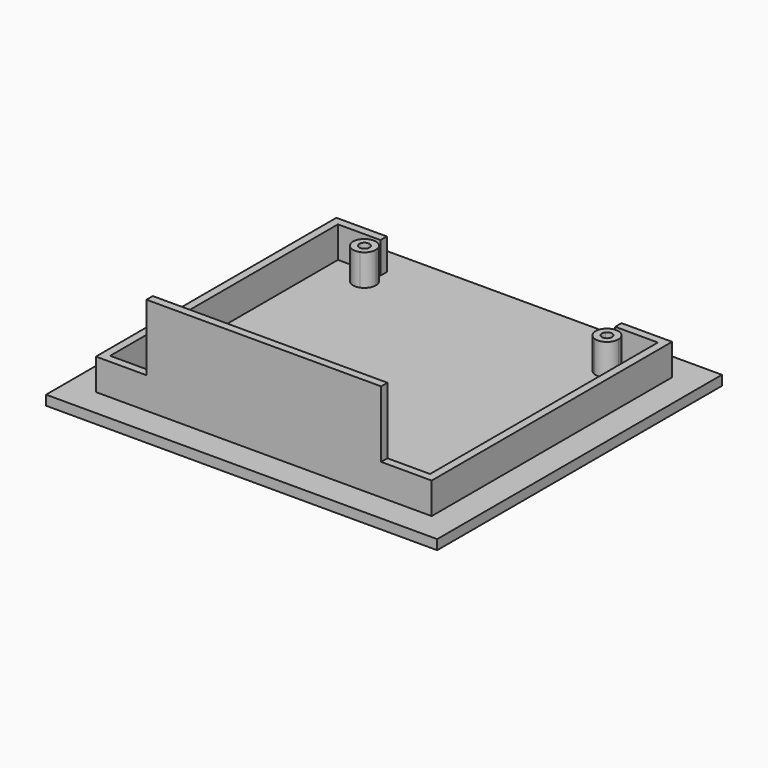
from build123d import *

# Parameters (mm, degrees)
F0_W     = 100
F0_H     = 91
F0_W_2   = 60
F0_H_2   = 2.0199990959
F0_W_3   = 20
F0_H_3   = 5
F0_H_4   = 0.9000000043
F1_DEPTH = 2.5
F2_DEPTH = 8
F3_DEPTH = 8
F4_DEPTH = 25


with BuildPart() as f1:
    # F0 (on Top) → F1 (new body)
    with BuildSketch(Plane.XY):
        with Locations((41.1687159911, -7.0227757916)):
            Rectangle(F0_W, F0_H)
        Polygon((-1.7512831092, 31.3972233087), (11.1687159911, 31.3972233087), (71.1687159911, 31.3972233087), (84.0887150913, 31.3972233087), (84.0887150913, -45.4427748919), (71.1687159911, -45.4427748919), (11.1687159911, -45.4427748919), (-1.7512831092, -45.4427748919), align=None, mode=Mode.SUBTRACT)
        with BuildLine():
            Line((71.1687159911, 28.4772242084), (11.1687159911, 28.4772242084))
            Line((11.1687159911, 28.4772242084), (11.1687159911, 28.1993557262))
            ThreePointArc((11.1687159911, 28.1993557262), (12.5467403812, 27.1370434757), (13.0687159911, 25.4772242084))
            ThreePointArc((13.0687159911, 25.4772242084), (12.5467403812, 23.8174049411), (11.1687159911, 22.7550926907))
            Line((11.1687159911, 22.7550926907), (11.1687159911, -42.5227757916))
            Line((11.1687159911, -42.5227757916), (31.1687159911, -42.5227757916))
            Line((31.1687159911, -42.5227757916), (31.1687159911, -37.5227757916))
            Line((31.1687159911, -37.5227757916), (51.1687159911, -37.5227757916))
            Line((51.1687159911, -37.5227757916), (51.1687159911, -42.5227757916))
            Line((51.1687159911, -42.5227757916), (71.1687159911, -42.5227757916))
            Line((71.1687159911, -42.5227757916), (71.1687159911, 22.7550926907))
            ThreePointArc((71.1687159911, 22.7550926907), (69.2687159911, 25.4772242084), (71.1687159911, 28.1993557262))
            Line((71.1687159911, 28.1993557262), (71.1687159911, 28.4772242084))
        make_face()
        with BuildLine():
            Line((71.1687159911, 28.4772242084), (11.1687159911, 28.4772242084))
            Line((11.1687159911, 28.4772242084), (11.1687159911, 28.1993557262))
            ThreePointArc((11.1687159911, 28.1993557262), (12.5467403812, 27.1370434757), (13.0687159911, 25.4772242084))
            ThreePointArc((13.0687159911, 25.4772242084), (12.5467403812, 23.8174049411), (11.1687159911, 22.7550926907))
            Line((11.1687159911, 22.7550926907), (11.1687159911, -42.5227757916))
            Line((11.1687159911, -42.5227757916), (31.1687159911, -42.5227757916))
            Line((31.1687159911, -42.5227757916), (31.1687159911, -37.5227757916))
            Line((31.1687159911, -37.5227757916), (51.1687159911, -37.5227757916))
            Line((51.1687159911, -37.5227757916), (51.1687159911, -42.5227757916))
            Line((51.1687159911, -42.5227757916), (71.1687159911, -42.5227757916))
            Line((71.1687159911, -42.5227757916), (71.1687159911, 22.7550926907))
            ThreePointArc((71.1687159911, 22.7550926907), (69.2687159911, 25.4772242084), (71.1687159911, 28.1993557262))
            Line((71.1687159911, 28.1993557262), (71.1687159911, 28.4772242084))
        make_face()
        with BuildLine():
            Line((11.1687159911, 28.4772242084), (1.1687159911, 28.4772242084))
            Line((1.1687159911, 28.4772242084), (1.1687159911, -42.5227757916))
            Line((1.1687159911, -42.5227757916), (11.1687159911, -42.5227757916))
            Line((11.1687159911, -42.5227757916), (11.1687159911, 22.7550926907))
            ThreePointArc((11.1687159911, 22.7550926907), (7.2687159911, 25.4772242084), (11.1687159911, 28.1993557262))
            Line((11.1687159911, 28.1993557262), (11.1687159911, 28.4772242084))
        make_face()
        with BuildLine():
            Line((81.1687159911, 28.4772242084), (71.1687159911, 28.4772242084))
            Line((71.1687159911, 28.4772242084), (71.1687159911, 28.1993557262))
            ThreePointArc((71.1687159911, 28.1993557262), (73.8285352583, 27.8552485985), (75.0687159911, 25.4772242084))
            ThreePointArc((75.0687159911, 25.4772242084), (73.8285352583, 23.0991998183), (71.1687159911, 22.7550926907))
            Line((71.1687159911, 22.7550926907), (71.1687159911, -42.5227757916))
            Line((71.1687159911, -42.5227757916), (81.1687159911, -42.5227757916))
            Line((81.1687159911, -42.5227757916), (81.1687159911, 28.4772242084))
        make_face()
        Polygon((0.2687159867, 29.3772242127), (11.1687159911, 29.3772242127), (11.1687159911, 31.3972233087), (-1.7512831092, 31.3972233087), (-1.7512831092, -45.4427748919), (11.1687159911, -45.4427748919), (11.1687159911, -43.4227757959), (0.2687159867, -43.4227757959), align=None)
        Polygon((71.1687159911, 31.3972233087), (71.1687159911, 29.3772242127), (82.0687159954, 29.3772242127), (82.0687159954, -43.4227757959), (71.1687159911, -43.4227757959), (71.1687159911, -45.4427748919), (84.0887150913, -45.4427748919), (84.0887150913, 31.3972233087), align=None)
        with Locations((41.1687159911, 30.3872237607)):
            Rectangle(F0_W_2, F0_H_2)
        with Locations((41.1687159911, -44.4327753439)):
            Rectangle(F0_W_2, F0_H_2)
        with Locations((41.1687159911, -40.0227757916)):
            Rectangle(F0_W_3, F0_H_3)
        Polygon((1.1687159911, -42.5227757916), (1.1687159911, 28.4772242084), (11.1687159911, 28.4772242084), (11.1687159911, 29.3772242127), (0.2687159867, 29.3772242127), (0.2687159867, -43.4227757959), (11.1687159911, -43.4227757959), (11.1687159911, -42.5227757916), align=None)
        Polygon((71.1687159911, 29.3772242127), (71.1687159911, 28.4772242084), (81.1687159911, 28.4772242084), (81.1687159911, -42.5227757916), (71.1687159911, -42.5227757916), (71.1687159911, -43.4227757959), (82.0687159954, -43.4227757959), (82.0687159954, 29.3772242127), align=None)
        Polygon((1.1687159911, -42.5227757916), (1.1687159911, 28.4772242084), (11.1687159911, 28.4772242084), (11.1687159911, 29.3772242127), (0.2687159867, 29.3772242127), (0.2687159867, -43.4227757959), (11.1687159911, -43.4227757959), (11.1687159911, -42.5227757916), align=None)
        Polygon((71.1687159911, 29.3772242127), (71.1687159911, 28.4772242084), (81.1687159911, 28.4772242084), (81.1687159911, -42.5227757916), (71.1687159911, -42.5227757916), (71.1687159911, -43.4227757959), (82.0687159954, -43.4227757959), (82.0687159954, 29.3772242127), align=None)
        with Locations((41.1687159911, 28.9272242106)):
            Rectangle(F0_W_2, F0_H_4)
        Polygon((31.1687159911, -42.5227757916), (11.1687159911, -42.5227757916), (11.1687159911, -43.4227757959), (71.1687159911, -43.4227757959), (71.1687159911, -42.5227757916), (51.1687159911, -42.5227757916), align=None)
        with BuildLine():
            Line((11.1687159911, 26.3078865947), (11.1687159911, 28.1993557262))
            ThreePointArc((11.1687159911, 28.1993557262), (7.2687159911, 25.4772242084), (11.1687159911, 22.7550926907))
            Line((11.1687159911, 22.7550926907), (11.1687159911, 24.6465618221))
            ThreePointArc((11.1687159911, 24.6465618221), (8.8687159911, 25.4772242084), (11.1687159911, 26.3078865947))
        make_face()
        with BuildLine():
            ThreePointArc((75.0687159911, 25.4772242084), (73.8285352583, 27.8552485985), (71.1687159911, 28.1993557262))
            Line((71.1687159911, 28.1993557262), (71.1687159911, 26.3078865947))
            ThreePointArc((71.1687159911, 26.3078865947), (72.6103040344, 26.6999261345), (73.4687159911, 25.4772242084))
            ThreePointArc((73.4687159911, 25.4772242084), (72.6103040344, 24.2545222824), (71.1687159911, 24.6465618221))
            Line((71.1687159911, 24.6465618221), (71.1687159911, 22.7550926907))
            ThreePointArc((71.1687159911, 22.7550926907), (73.8285352583, 23.0991998183), (75.0687159911, 25.4772242084))
        make_face()
        with BuildLine():
            ThreePointArc((13.0687159911, 25.4772242084), (12.5467403812, 27.1370434757), (11.1687159911, 28.1993557262))
            Line((11.1687159911, 28.1993557262), (11.1687159911, 26.3078865947))
            ThreePointArc((11.1687159911, 26.3078865947), (11.3914179171, 25.9188122517), (11.4687159911, 25.4772242084))
            ThreePointArc((11.4687159911, 25.4772242084), (11.3914179171, 25.0356361651), (11.1687159911, 24.6465618221))
            Line((11.1687159911, 24.6465618221), (11.1687159911, 22.7550926907))
            ThreePointArc((11.1687159911, 22.7550926907), (12.5467403812, 23.8174049411), (13.0687159911, 25.4772242084))
        make_face()
        with BuildLine():
            Line((71.1687159911, 26.3078865947), (71.1687159911, 28.1993557262))
            ThreePointArc((71.1687159911, 28.1993557262), (69.2687159911, 25.4772242084), (71.1687159911, 22.7550926907))
            Line((71.1687159911, 22.7550926907), (71.1687159911, 24.6465618221))
            ThreePointArc((71.1687159911, 24.6465618221), (70.8687159911, 25.4772242084), (71.1687159911, 26.3078865947))
        make_face()
    extrude(amount=-F1_DEPTH)

    # F0 (on Top) → F2 (join)
    with BuildSketch(Plane.XY):
        with Locations((41.1687159911, -40.0227757916)):
            Rectangle(F0_W_3, F0_H_3)
        with BuildLine():
            Line((11.1687159911, 26.3078865947), (11.1687159911, 28.1993557262))
            ThreePointArc((11.1687159911, 28.1993557262), (7.2687159911, 25.4772242084), (11.1687159911, 22.7550926907))
            Line((11.1687159911, 22.7550926907), (11.1687159911, 24.6465618221))
            ThreePointArc((11.1687159911, 24.6465618221), (8.8687159911, 25.4772242084), (11.1687159911, 26.3078865947))
        make_face()
        with BuildLine():
            ThreePointArc((13.0687159911, 25.4772242084), (12.5467403812, 27.1370434757), (11.1687159911, 28.1993557262))
            Line((11.1687159911, 28.1993557262), (11.1687159911, 26.3078865947))
            ThreePointArc((11.1687159911, 26.3078865947), (11.3914179171, 25.9188122517), (11.4687159911, 25.4772242084))
            ThreePointArc((11.4687159911, 25.4772242084), (11.3914179171, 25.0356361651), (11.1687159911, 24.6465618221))
            Line((11.1687159911, 24.6465618221), (11.1687159911, 22.7550926907))
            ThreePointArc((11.1687159911, 22.7550926907), (12.5467403812, 23.8174049411), (13.0687159911, 25.4772242084))
        make_face()
        with BuildLine():
            Line((71.1687159911, 26.3078865947), (71.1687159911, 28.1993557262))
            ThreePointArc((71.1687159911, 28.1993557262), (69.2687159911, 25.4772242084), (71.1687159911, 22.7550926907))
            Line((71.1687159911, 22.7550926907), (71.1687159911, 24.6465618221))
            ThreePointArc((71.1687159911, 24.6465618221), (70.8687159911, 25.4772242084), (71.1687159911, 26.3078865947))
        make_face()
        with BuildLine():
            ThreePointArc((75.0687159911, 25.4772242084), (73.8285352583, 27.8552485985), (71.1687159911, 28.1993557262))
            Line((71.1687159911, 28.1993557262), (71.1687159911, 26.3078865947))
            ThreePointArc((71.1687159911, 26.3078865947), (72.6103040344, 26.6999261345), (73.4687159911, 25.4772242084))
            ThreePointArc((73.4687159911, 25.4772242084), (72.6103040344, 24.2545222824), (71.1687159911, 24.6465618221))
            Line((71.1687159911, 24.6465618221), (71.1687159911, 22.7550926907))
            ThreePointArc((71.1687159911, 22.7550926907), (73.8285352583, 23.0991998183), (75.0687159911, 25.4772242084))
        make_face()
    extrude(amount=F2_DEPTH)

    # F0 (on Top) → F3 (join)
    with BuildSketch(Plane.XY):
        Polygon((0.2687159867, 29.3772242127), (11.1687159911, 29.3772242127), (11.1687159911, 31.3972233087), (-1.7512831092, 31.3972233087), (-1.7512831092, -45.4427748919), (11.1687159911, -45.4427748919), (11.1687159911, -43.4227757959), (0.2687159867, -43.4227757959), align=None)
        Polygon((71.1687159911, 31.3972233087), (71.1687159911, 29.3772242127), (82.0687159954, 29.3772242127), (82.0687159954, -43.4227757959), (71.1687159911, -43.4227757959), (71.1687159911, -45.4427748919), (84.0887150913, -45.4427748919), (84.0887150913, 31.3972233087), align=None)
    extrude(amount=F3_DEPTH)

    # F0 (on Top) → F4 (join)
    with BuildSketch(Plane.XY):
        with Locations((41.1687159911, -44.4327753439)):
            Rectangle(F0_W_2, F0_H_2)
    extrude(amount=F4_DEPTH)


solid = f1.part
